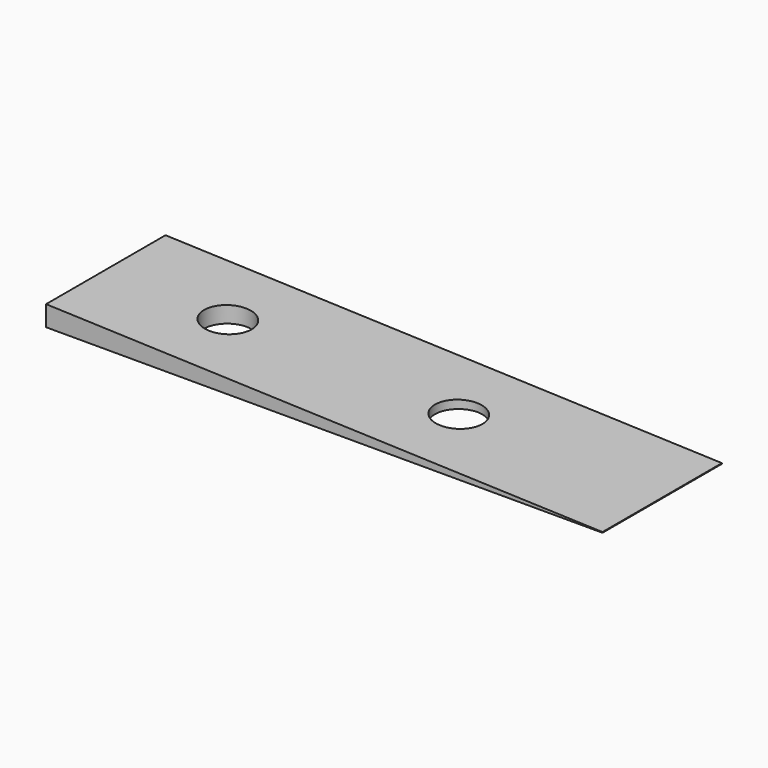
from build123d import *

# Parameters (mm, degrees)
F1_DEPTH = 22
F3_D     = 7
F3_DEPTH = 14.4


with BuildPart() as f1:
    # F0 (on Front) → F1 (new body)
    with BuildSketch(Plane.XZ):
        Polygon((-30.940994, 3), (-30.940994, 0), (51.059006, 0), (51.059006, 0.1), align=None)
    extrude(amount=F1_DEPTH)

    # F3
    with Locations(Plane(origin=(0.067314, 0, 1.903365), x_dir=(0.999375, 0, -0.035344), z_dir=(0.035344, 0, 0.999375))):
        with Locations((-13.027694, -11), (21.023571, -11)):
            Hole(F3_D / 2, depth=F3_DEPTH)


solid = f1.part
